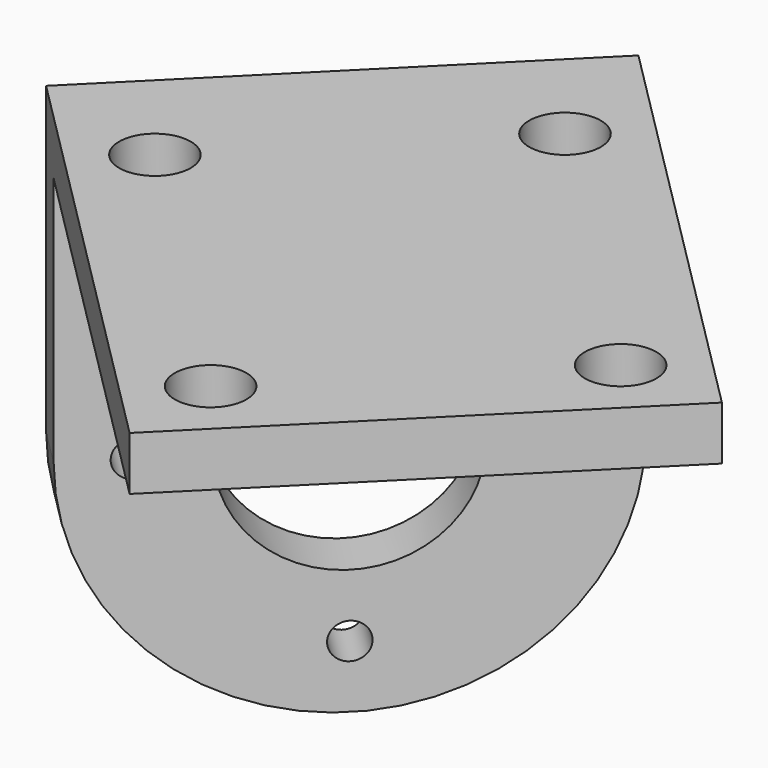
from build123d import *

# Parameters (mm, degrees)
SKETCH084_R             = 6
PAD062_DEPTH            = 3
SKETCH085_W             = 26
SKETCH085_H             = 3
PAD063_DEPTH            = 30
SKETCH086_R             = 2
POCKET029_DEPTH         = 30.001
SKETCH087_R             = 1
POCKET030_DEPTH         = 136.248276
POLARPATTERN012_COUNT   = 4
BODY038_PLACEMENT_ANGLE = 45


with BuildPart() as part:
    # Sketch084 → Pad062 (new body)
    with BuildSketch(Plane.XZ):
        with BuildLine():
            Line((-13, 17), (13, 17))
            Line((13, 17), (13, 0))
            ThreePointArc((-13, 0), (0, -13), (13, 0))
            Line((-13, 17), (-13, 0))
        make_face()
        Circle(SKETCH084_R, mode=Mode.SUBTRACT)
    extrude(amount=PAD062_DEPTH)

    # Sketch085 (on Face7 of Pad062) → Pad063 (join)
    with BuildSketch(Plane.XZ.offset(3)):
        with Locations((0, 15.5)):
            Rectangle(SKETCH085_W, SKETCH085_H)
    extrude(amount=PAD063_DEPTH)

    # Sketch086 (on Face5 of Pad063) → Pocket029 (cut, through all)
    with BuildSketch(Plane(origin=(0, 0, 17), x_dir=(-1, 0, 0), z_dir=(0, 0, 1))):
        with Locations((-9, 7)):
            Circle(SKETCH086_R)
        with Locations((9, 7)):
            Circle(SKETCH086_R)
        with Locations((-9, 29)):
            Circle(SKETCH086_R)
        with Locations((9, 29)):
            Circle(SKETCH086_R)
    extrude(amount=-POCKET029_DEPTH, mode=Mode.SUBTRACT)

    # Sketch087 (on Face4 of Pocket029) → Pocket030 (cut, through all)
    with BuildSketch(Plane(origin=(0, 0, 0), x_dir=(1, 0, 0), z_dir=(0, 1, 0))):
        with Locations((0, 9.5)):
            Circle(SKETCH087_R)
    pocket030 = extrude(amount=-POCKET030_DEPTH, mode=Mode.SUBTRACT)

    # PolarPattern012: Pocket030 ×4 about axis
    polarpattern012_axis = Axis((0, 0, 0), (0, 1, 0))
    for i in range(1, POLARPATTERN012_COUNT):
        add(pocket030.rotate(polarpattern012_axis, i * 360 / POLARPATTERN012_COUNT), mode=Mode.SUBTRACT)


with BuildPart() as part_1:
    # Body038 placement: moved
    add(part.part.moved(Location((-53.740115, 53.740115, -1))).rotate(Axis((-53.740115, 53.740115, -1), (0, 0, 1)), BODY038_PLACEMENT_ANGLE))


solid = part_1.part
